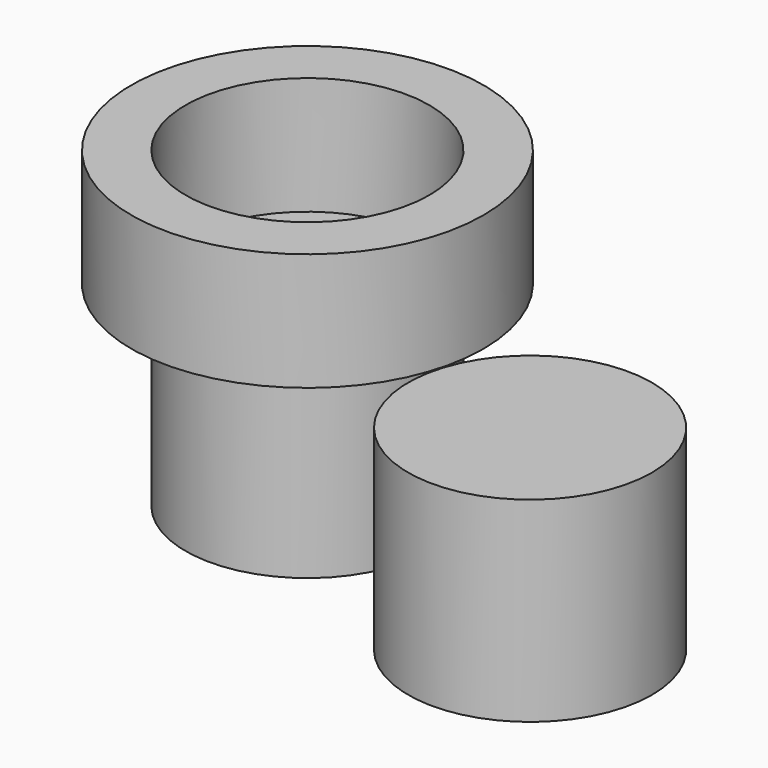
from build123d import *

# Parameters (mm, degrees)
F0_R     = 50.8
F1_DEPTH = 81.534
F2_R     = 73.385373
F2_R_2   = 50.8
F3_DEPTH = 49.022


with BuildPart() as f1:
    # F0 (on Top) → F1 (new body)
    with BuildSketch(Plane.XY):
        with Locations((-119.881138, 33.878803)):
            Circle(F0_R)
        Circle(F0_R)
    extrude(amount=F1_DEPTH)


with BuildPart() as f3:
    # F2 (on face) → F3 (new body)
    with BuildSketch(Plane.XY.offset(81.534)):
        with Locations((-119.881138, 33.878803)):
            Circle(F2_R)
        with Locations((-119.881138, 33.878803)):
            Circle(F2_R_2, mode=Mode.SUBTRACT)
    extrude(amount=F3_DEPTH)


solid = Compound([f1.part, f3.part])
